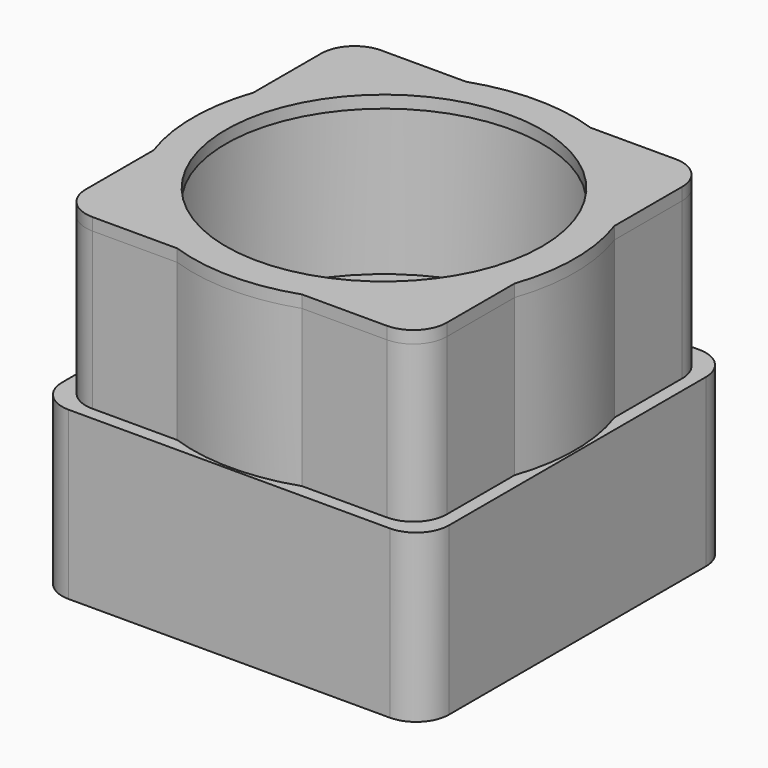
from build123d import *

# Parameters (mm, degrees)
F0_W      = 80
F0_H      = 80
F0_R      = 2.1
F0_R_2    = 38.4
F1_DEPTH  = 38
F2_W      = 94
F2_H      = 94
F2_R      = 2.1
F2_R_2    = 38.4
F3_DEPTH  = 2.5
F4_W      = 94
F4_H      = 94
F4_W_2    = 88
F4_H_2    = 88
F5_DEPTH  = 38
F6_R      = 43.4
F7_DEPTH  = 38
F8_R      = 5
F9_DEPTH  = 38
F10_R     = 5
F11_R     = 8
F12_R     = 38.4
F13_DEPTH = 3
F14_R     = 4.75
F14_R_2   = 2.75
F15_DEPTH = 8
F15_TAPER = 3


with BuildPart() as f1:
    # F0 (on Top) → F1 (new body)
    with BuildSketch(Plane.XY):
        Rectangle(F0_W, F0_H)
        with Locations((-35.75, -35.75)):
            Circle(F0_R, mode=Mode.SUBTRACT)
        with Locations((35.75, -35.75)):
            Circle(F0_R, mode=Mode.SUBTRACT)
        with Locations((-35.75, 35.75)):
            Circle(F0_R, mode=Mode.SUBTRACT)
        Circle(F0_R_2, mode=Mode.SUBTRACT)
        with Locations((35.75, 35.75)):
            Circle(F0_R, mode=Mode.SUBTRACT)
    extrude(amount=F1_DEPTH)


with BuildPart() as f3:
    # F2 (on face) → F3 (new body)
    with BuildSketch(Plane.XY.offset(38)):
        Rectangle(F2_W, F2_H)
        with Locations((-35.75, -35.75)):
            Circle(F2_R, mode=Mode.SUBTRACT)
        with Locations((35.75, -35.75)):
            Circle(F2_R, mode=Mode.SUBTRACT)
        with Locations((-35.75, 35.75)):
            Circle(F2_R, mode=Mode.SUBTRACT)
        Circle(F2_R_2, mode=Mode.SUBTRACT)
        with Locations((35.75, 35.75)):
            Circle(F2_R, mode=Mode.SUBTRACT)
    extrude(amount=F3_DEPTH)

    # F4 (on face) → F5 (join, through all)
    with BuildSketch(Plane(origin=(0, 0, 38), x_dir=(1, 0, 0), z_dir=(0, 0, -1))):
        Rectangle(F4_W, F4_H)
        Rectangle(F4_W_2, F4_H_2, mode=Mode.SUBTRACT)
    extrude(amount=F5_DEPTH)

    # F6 (on face) → F7 (join)
    with BuildSketch(Plane.XY.offset(40.5)):
        with BuildLine():
            Line((-43.85, 35.75), (-43.85, 15.1702834515))
            ThreePointArc((-43.85, 15.1702834515), (-46.4, 0), (-43.85, -15.1702834515))
            Line((-43.85, -15.1702834515), (-43.85, -35.75))
            ThreePointArc((-43.85, -35.75), (-41.4775649276, -41.4775649276), (-35.75, -43.85))
            Line((-35.75, -43.85), (-15.1702834515, -43.85))
            ThreePointArc((-15.1702834515, -43.85), (0, -46.4), (15.1702834515, -43.85))
            Line((15.1702834515, -43.85), (35.75, -43.85))
            ThreePointArc((35.75, -43.85), (41.4775649276, -41.4775649276), (43.85, -35.75))
            Line((43.85, -35.75), (43.85, -15.1702834515))
            ThreePointArc((43.85, -15.1702834515), (46.4, 0), (43.85, 15.1702834515))
            Line((43.85, 15.1702834515), (43.85, 35.75))
            ThreePointArc((43.85, 35.75), (41.4775649276, 41.4775649276), (35.75, 43.85))
            Line((35.75, 43.85), (15.1702834515, 43.85))
            ThreePointArc((15.1702834515, 43.85), (0, 46.4), (-15.1702834515, 43.85))
            Line((-15.1702834515, 43.85), (-35.75, 43.85))
            ThreePointArc((-35.75, 43.85), (-41.4775649276, 41.4775649276), (-43.85, 35.75))
        make_face()
        Circle(F6_R, mode=Mode.SUBTRACT)
    extrude(amount=F7_DEPTH)

    # F8 (on face) → F9 (cut, through all)
    with BuildSketch(Plane.XY.offset(78.5)):
        with Locations((-35.75, 35.75)):
            Circle(F8_R)
        with Locations((-35.75, -35.75)):
            Circle(F8_R)
        with Locations((35.75, -35.75)):
            Circle(F8_R)
        with Locations((35.75, 35.75)):
            Circle(F8_R)
    extrude(amount=-F9_DEPTH, mode=Mode.SUBTRACT)

    # F10
    f10_edges = [f3.edges().sort_by_distance(p)[0] for p in [
        (44, -44, 19),
        (-44, -44, 19),
        (-44, 44, 19),
        (44, 44, 19),
    ]]
    fillet(f10_edges, radius=F10_R)

    # F11
    f11_edges = [f3.edges().sort_by_distance(p)[0] for p in [
        (-47, -47, 20.25),
        (47, -47, 20.25),
        (-47, 47, 20.25),
        (47, 47, 20.25),
    ]]
    fillet(f11_edges, radius=F11_R)


with BuildPart() as f13:
    # F12 (on face) → F13 (new body)
    with BuildSketch(Plane.XY.offset(78.5)):
        with BuildLine():
            ThreePointArc((-15.1702834515, -43.85), (0, -46.4), (15.1702834515, -43.85))
            Line((15.1702834515, -43.85), (35.75, -43.85))
            ThreePointArc((35.75, -43.85), (41.4775649276, -41.4775649276), (43.85, -35.75))
            Line((43.85, -35.75), (43.85, -15.1702834515))
            ThreePointArc((43.85, -15.1702834515), (46.4, 0), (43.85, 15.1702834515))
            Line((43.85, 15.1702834515), (43.85, 35.75))
            ThreePointArc((43.85, 35.75), (41.4775649276, 41.4775649276), (35.75, 43.85))
            Line((35.75, 43.85), (15.1702834515, 43.85))
            ThreePointArc((15.1702834515, 43.85), (0, 46.4), (-15.1702834515, 43.85))
            Line((-15.1702834515, 43.85), (-35.75, 43.85))
            ThreePointArc((-35.75, 43.85), (-41.4775649276, 41.4775649276), (-43.85, 35.75))
            Line((-43.85, 35.75), (-43.85, 15.1702834515))
            ThreePointArc((-43.85, 15.1702834515), (-46.4, 0), (-43.85, -15.1702834515))
            Line((-43.85, -15.1702834515), (-43.85, -35.75))
            ThreePointArc((-43.85, -35.75), (-41.4775649276, -41.4775649276), (-35.75, -43.85))
            Line((-35.75, -43.85), (-15.1702834515, -43.85))
        make_face()
        Circle(F12_R, mode=Mode.SUBTRACT)
    extrude(amount=F13_DEPTH)

    # F14 (on face) → F15 (join)
    with BuildSketch(Plane(origin=(0, 0, 78.5), x_dir=(1, 0, 0), z_dir=(0, 0, -1))):
        with Locations((-35.75, -35.75)):
            Circle(F14_R)
        with Locations((-35.75, -35.75)):
            Circle(F14_R_2, mode=Mode.SUBTRACT)
        with Locations((35.75, -35.75)):
            Circle(F14_R)
        with Locations((35.75, -35.75)):
            Circle(F14_R_2, mode=Mode.SUBTRACT)
        with Locations((35.75, 35.75)):
            Circle(F14_R)
        with Locations((35.75, 35.75)):
            Circle(F14_R_2, mode=Mode.SUBTRACT)
        with Locations((-35.75, 35.75)):
            Circle(F14_R)
        with Locations((-35.75, 35.75)):
            Circle(F14_R_2, mode=Mode.SUBTRACT)
    extrude(amount=F15_DEPTH, taper=F15_TAPER)


solid = Compound([f1.part, f3.part, f13.part])
